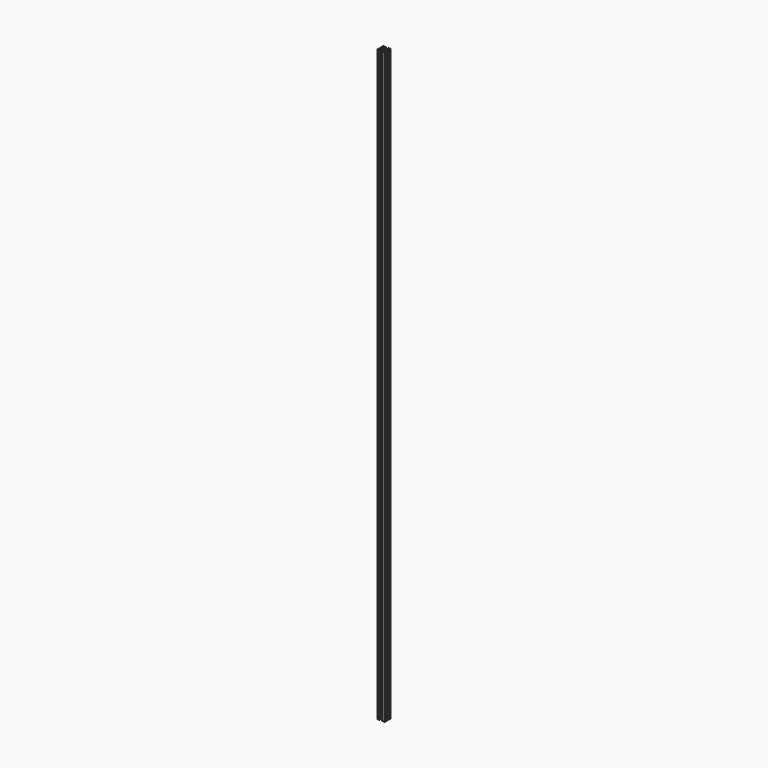
from build123d import *

# Parameters (mm, degrees)
F0_R     = 2.5
F1_DEPTH = 1550
F2_R     = 0.5


with BuildPart() as f1:
    # F0 (on Top) → F1 (new body)
    with BuildSketch(Plane.XY):
        Polygon((6.5, 7.616114), (1.4, 2.389949), (1.4, 6.8), (0, 6.8), (0, 0), (6.8, 0), (6.8, 1.4), (2.389949, 1.4), (7.489949, 6.5), (12.510051, 6.5), (17.610051, 1.4), (13.2, 1.4), (13.2, 0), (20, 0), (20, 6.8), (18.6, 6.8), (18.6, 2.389949), (13.5, 7.489949), (13.5, 12.510051), (18.6, 17.610051), (18.6, 13.2), (20, 13.2), (20, 20), (13.2, 20), (13.2, 18.6), (17.610051, 18.6), (12.510051, 13.5), (7.489949, 13.5), (2.389949, 18.6), (6.8, 18.6), (6.8, 20), (0, 20), (0, 13.2), (1.4, 13.2), (1.4, 17.610051), (6.5, 12.510051), align=None)
        with Locations((10, 10)):
            Circle(F0_R, mode=Mode.SUBTRACT)
    extrude(amount=F1_DEPTH)

    # F2
    f2_edges = [f1.edges().sort_by_distance(p)[0] for p in [
        (0, 0, 775),
        (0, 20, 775),
        (20, 20, 775),
        (20, 0, 775),
    ]]
    fillet(f2_edges, radius=F2_R)


solid = f1.part
